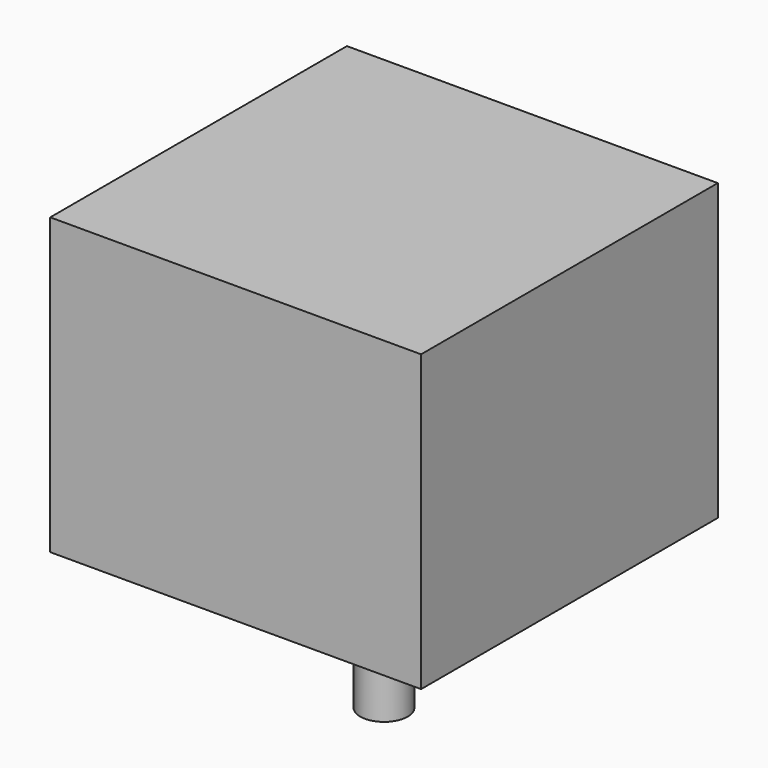
from build123d import *

# Parameters (mm, degrees)
CYLINDER013_R             = 11
CYLINDER013_DEPTH         = 2
CYLINDER014_R             = 2.5
CYLINDER014_DEPTH         = 14
CYLINDER010_R             = 1.5
CYLINDER010_DEPTH         = 10
CYLINDER011_R             = 1.5
CYLINDER011_DEPTH         = 10
CYLINDER012_R             = 1.5
CYLINDER012_DEPTH         = 10
CYLINDER009_R             = 1.5
CYLINDER009_DEPTH         = 10
BOX001_W                  = 39
BOX001_H                  = 31
BOX001_DEPTH              = 39
FUSION001_PLACEMENT_ANGLE = 90


with BuildPart() as cylinder013:
    # Cylinder013 → Cylinder013 (new body)
    with BuildSketch(Plane(origin=(19.5, 33, 19.5), x_dir=(1, 0, 0), z_dir=(0, -1, 0))):
        Circle(CYLINDER013_R)
    extrude(amount=CYLINDER013_DEPTH)


with BuildPart() as cylinder014:
    # Cylinder014 → Cylinder014 (new body)
    with BuildSketch(Plane(origin=(19.5, 33, 19.5), x_dir=(1, 0, 0), z_dir=(0, 1, 0))):
        Circle(CYLINDER014_R)
    extrude(amount=CYLINDER014_DEPTH)


with BuildPart() as cylinder010:
    # Cylinder010 → Cylinder010 (new body)
    with BuildSketch(Plane(origin=(35, 23, 35), x_dir=(1, 0, 0), z_dir=(0, 1, 0))):
        Circle(CYLINDER010_R)
    extrude(amount=CYLINDER010_DEPTH)


with BuildPart() as cylinder011:
    # Cylinder011 → Cylinder011 (new body)
    with BuildSketch(Plane(origin=(35, 23, 4), x_dir=(1, 0, 0), z_dir=(0, 1, 0))):
        Circle(CYLINDER011_R)
    extrude(amount=CYLINDER011_DEPTH)


with BuildPart() as cylinder012:
    # Cylinder012 → Cylinder012 (new body)
    with BuildSketch(Plane(origin=(4, 23, 4), x_dir=(1, 0, 0), z_dir=(0, 1, 0))):
        Circle(CYLINDER012_R)
    extrude(amount=CYLINDER012_DEPTH)


with BuildPart() as cylinder009:
    # Cylinder009 → Cylinder009 (new body)
    with BuildSketch(Plane(origin=(4, 23, 35), x_dir=(1, 0, 0), z_dir=(0, 1, 0))):
        Circle(CYLINDER009_R)
    extrude(amount=CYLINDER009_DEPTH)


with BuildPart() as fusion001:
    # Box001 → Box001 (new body)
    with BuildSketch(Plane.XY):
        with Locations((19.5, 15.5)):
            Rectangle(BOX001_W, BOX001_H)
    extrude(amount=BOX001_DEPTH)

    # Cut005: cut Cylinder009
    add(cylinder009.part, mode=Mode.SUBTRACT)

    # Cut006: cut Cylinder012
    add(cylinder012.part, mode=Mode.SUBTRACT)

    # Cut007: cut Cylinder011
    add(cylinder011.part, mode=Mode.SUBTRACT)

    # Cut008: cut Cylinder010
    add(cylinder010.part, mode=Mode.SUBTRACT)

    # Fusion001: union Cylinder013, Cylinder014
    add(cylinder013.part)
    add(cylinder014.part)


with BuildPart() as fusion001_1:
    # Fusion001 placement: moved
    add(fusion001.part.moved(Location((100, -32.3, 93.7))).rotate(Axis((100, -32.3, 93.7), (-1, 0, 0)), FUSION001_PLACEMENT_ANGLE))


solid = fusion001_1.part
